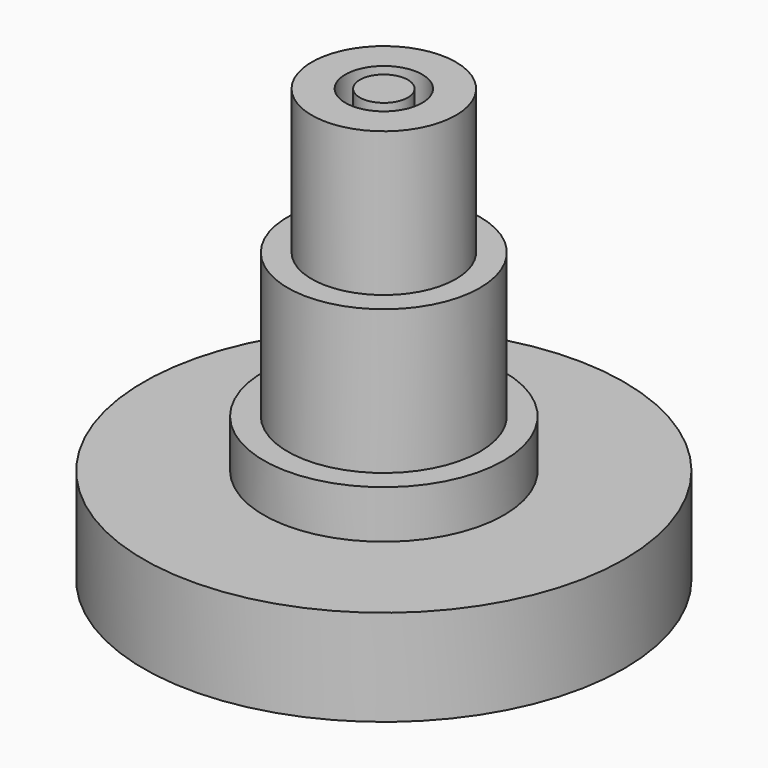
from build123d import *

# Parameters (mm, degrees)
F0_R     = 7.5
F0_R_2   = 4
F0_R_3   = 2.5
F1_DEPTH = 15
F2_R     = 10
F3_DEPTH = 15
F4_R     = 12.5
F5_DEPTH = 5
F7_R     = 25
F7_R_2   = 12.5
F8_DEPTH = 10
F6_R     = 12.5
F9_DEPTH = 5


with BuildPart() as f1:
    # F0 (on Top) → F1 (new body)
    with BuildSketch(Plane.XY):
        Circle(F0_R)
        Circle(F0_R_2, mode=Mode.SUBTRACT)
        Circle(F0_R_3)
    extrude(amount=F1_DEPTH)


with BuildPart() as f3:
    # F2 (on Top) → F3 (new body)
    with BuildSketch(Plane.XY):
        Circle(F2_R)
    extrude(amount=-F3_DEPTH)

    # F4 (on face) → F5 (join)
    with BuildSketch(Plane(origin=(0, 0, -15), x_dir=(1, 0, 0), z_dir=(0, 0, -1))):
        Circle(F4_R)
    extrude(amount=F5_DEPTH)

    # F7 (on face) → F8 (join)
    with BuildSketch(Plane(origin=(0, 0, -20), x_dir=(1, 0, 0), z_dir=(0, 0, -1))):
        Circle(F7_R)
        Circle(F7_R_2, mode=Mode.SUBTRACT)
    extrude(amount=F8_DEPTH)


with BuildPart() as f9:
    # F6 (on face) → F9 (new body)
    with BuildSketch(Plane(origin=(0, 0, -20), x_dir=(1, 0, 0), z_dir=(0, 0, -1))):
        Circle(F6_R)
    extrude(amount=F9_DEPTH)


solid = Compound([f1.part, f3.part, f9.part])
